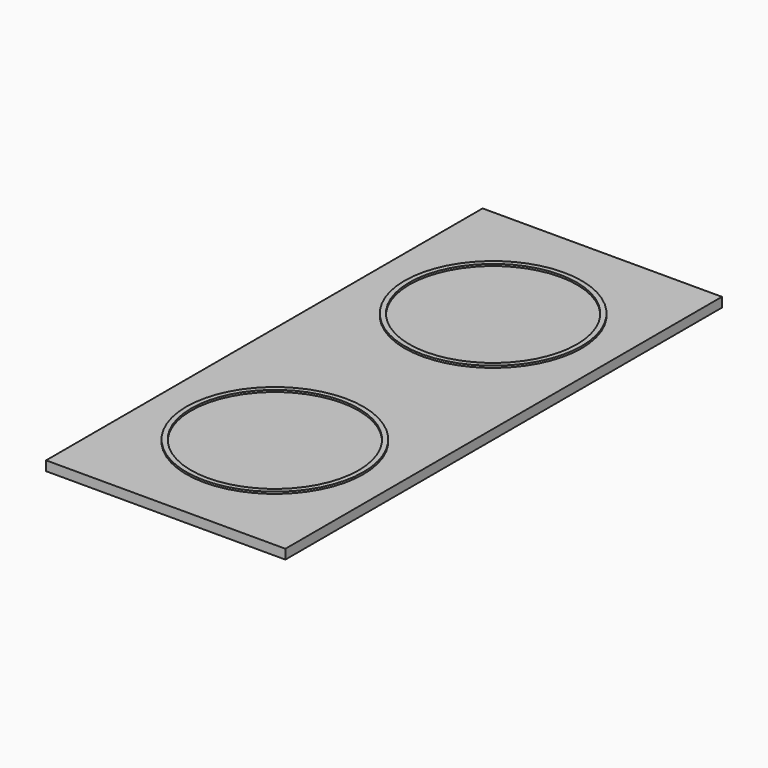
from build123d import *

# Parameters (mm, degrees)
F0_W     = 250
F0_H     = 570
F1_DEPTH = 10
F3_DEPTH = 2


with BuildPart() as f1:
    # F0 (on Top) → F1 (new body)
    with BuildSketch(Plane.XY):
        with Locations((113.159475, 248.007115)):
            Rectangle(F0_W, F0_H)
    extrude(amount=F1_DEPTH)

    # F2 (on face) → F3 (join)
    with BuildSketch(Plane.XY.offset(10)):
        with BuildLine():
            ThreePointArc((174.157473, 460.044833), (43.621757, 451.505113), (52.161477, 320.969397))
            Line((52.161477, 320.969397), (55.458666, 324.728192))
            ThreePointArc((55.458666, 324.728192), (47.380553, 448.207924), (170.860284, 456.286037))
            Line((170.860284, 456.286037), (174.157473, 460.044833))
        make_face()
        with BuildLine():
            Line((55.458666, 324.728192), (52.161477, 320.969397))
            ThreePointArc((52.161477, 320.969397), (151.32972, 306.249875), (205.659475, 390.507115))
            ThreePointArc((205.659475, 390.507115), (197.416714, 428.67736), (174.157473, 460.044833))
            Line((174.157473, 460.044833), (170.860284, 456.286037))
            ThreePointArc((170.860284, 456.286037), (192.862269, 426.614103), (200.659475, 390.507115))
            ThreePointArc((200.659475, 390.507115), (149.266463, 310.804321), (55.458666, 324.728192))
        make_face()
        with BuildLine():
            ThreePointArc((205.659475, 105.507115), (197.416714, 143.67736), (174.157473, 175.044833))
            Line((174.157473, 175.044833), (170.860284, 171.286037))
            ThreePointArc((170.860284, 171.286037), (192.862269, 141.614103), (200.659475, 105.507115))
            ThreePointArc((200.659475, 105.507115), (149.266463, 25.804321), (55.458666, 39.728192))
            Line((55.458666, 39.728192), (52.161477, 35.969397))
            ThreePointArc((52.161477, 35.969397), (151.32972, 21.249875), (205.659475, 105.507115))
        make_face()
        with BuildLine():
            Line((170.860284, 171.286037), (174.157473, 175.044833))
            ThreePointArc((174.157473, 175.044833), (43.621757, 166.505113), (52.161477, 35.969397))
            Line((52.161477, 35.969397), (55.458666, 39.728192))
            ThreePointArc((55.458666, 39.728192), (47.380553, 163.207924), (170.860284, 171.286037))
        make_face()
    extrude(amount=F3_DEPTH)


solid = f1.part
